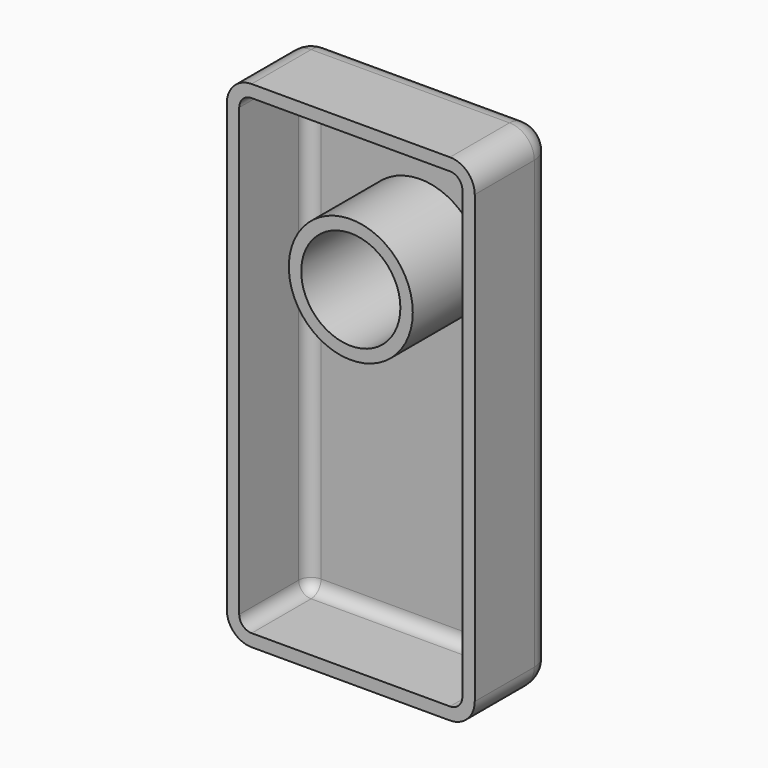
from build123d import *

# Parameters (mm, degrees)
F0_W     = 50
F0_H     = 100
F0_R     = 10
F1_DEPTH = 10
F2_R     = 5
F3_R     = 5
F4_T     = -2.5


with BuildPart() as f1:
    # F0 (on Front) → F1 (new body, symmetric)
    with BuildSketch(Plane.XZ):
        with Locations((0, 20)):
            Rectangle(F0_W, F0_H)
        Circle(F0_R, mode=Mode.SUBTRACT)
        with Locations((0, 40)):
            Circle(F0_R, mode=Mode.SUBTRACT)
        Circle(F0_R)
    extrude(amount=F1_DEPTH, both=True)

    # F2
    f2_edges = [f1.edges().sort_by_distance(p)[0] for p in [
        (-25, 0, 70),
        (25, 0, 70),
        (-25, 0, -30),
        (25, 0, -30),
    ]]
    fillet(f2_edges, radius=F2_R)

    # F3
    f3_edges = [f1.edges().sort_by_distance(p)[0] for p in [
        (0, 10, 70),
        (23.535534, 10, 68.535534),
        (25, 10, 20),
        (23.535534, 10, -28.535534),
        (0, 10, -30),
        (-23.535534, 10, -28.535534),
        (-25, 10, 20),
        (-23.535534, 10, 68.535534),
    ]]
    fillet(f3_edges, radius=F3_R)

    # F4
    f4_openings = [f1.faces().sort_by_distance(p)[0] for p in [
        (0, -10, 18.652943),
    ]]
    offset(amount=F4_T, openings=f4_openings)


solid = f1.part
